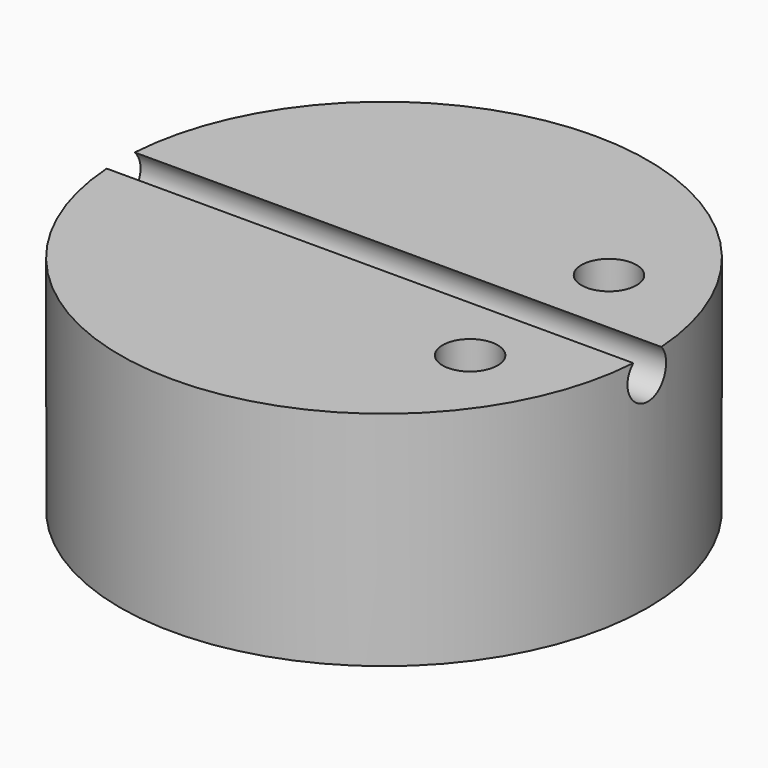
from build123d import *

# Parameters (mm, degrees)
F0_R          = 19
F1_DEPTH      = 16
F2_R          = 1.74
F3_DEPTH      = 19.001
F3_DEPTH_BACK = 19.001
F4_R          = 1.9835
F5_DEPTH      = 16.0010001


with BuildPart() as f1:
    # F0 (on Top) → F1 (new body)
    with BuildSketch(Plane.XY):
        Circle(F0_R)
    extrude(amount=F1_DEPTH)

    # F2 (on Right) → F3 (cut, two sides)
    with BuildSketch(Plane.YZ) as f3_sk:
        with Locations((0, 14.8)):
            Circle(F2_R)
    extrude(amount=-F3_DEPTH, mode=Mode.SUBTRACT)
    extrude(f3_sk.sketch, amount=F3_DEPTH_BACK, mode=Mode.SUBTRACT)

    # F4 (on Top) → F5 (cut, through all)
    with BuildSketch(Plane.XY):
        with Locations((11.2, -6.25)):
            Circle(F4_R)
        with Locations((11.2, 6.25)):
            Circle(F4_R)
    extrude(amount=F5_DEPTH, mode=Mode.SUBTRACT)


solid = f1.part
